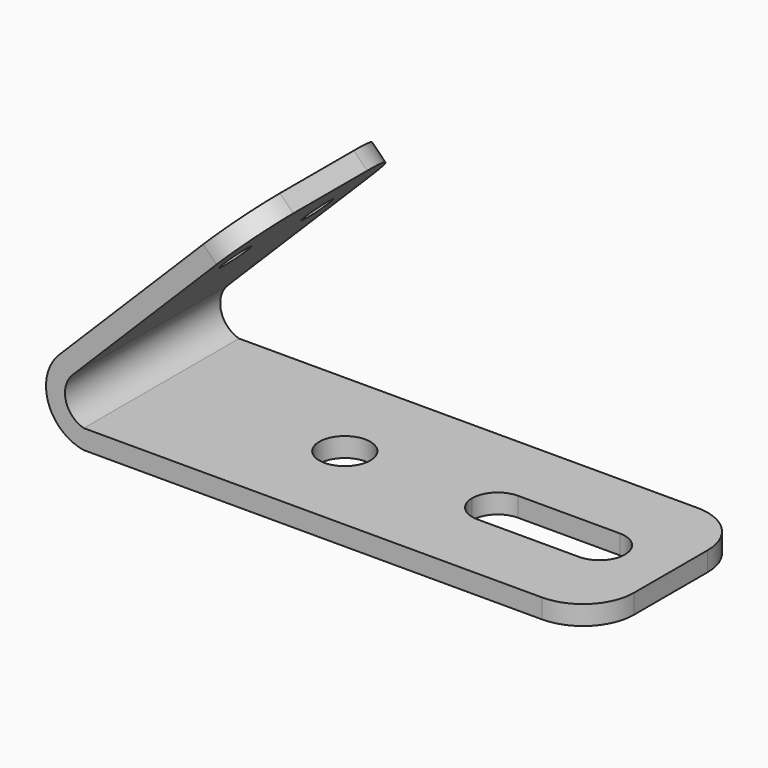
from build123d import *

# Parameters (mm, degrees)
F0_W     = 1270
F0_H     = 48.26
F1_DEPTH = 241.935
F3_DEPTH = 254
F5_DEPTH = 127
F6_R     = 38.1
F7_DEPTH = 101.6
F8_R     = 127


with BuildPart() as f1:
    # F0 (on Front) → F1 (new body, symmetric)
    with BuildSketch(Plane.XZ):
        with Locations((635, 24.13)):
            Rectangle(F0_W, F0_H)
        with BuildLine():
            ThreePointArc((-61.369352, 189.382638), (-88.660331, 75.904336), (0, 0))
            Line((0, 0), (0, 48.26))
            ThreePointArc((0, 48.26), (-44.826748, 94.123068), (-27.992452, 156.005738))
            Line((-27.992452, 156.005738), (421.020354, 605.018544))
            Line((421.020354, 605.018544), (387.643454, 638.395444))
            Line((387.643454, 638.395444), (-61.369352, 189.382638))
        make_face()
    extrude(amount=F1_DEPTH, both=True)

    # F2 (on face) → F3 (cut)
    with BuildSketch(Plane(origin=(0, 0, 0), x_dir=(1, 0, 0), z_dir=(0, 0, -1))):
        with BuildLine():
            ThreePointArc((1092.2, -63.5), (1137.101281, -44.901281), (1155.7, 0))
            ThreePointArc((1155.7, 0), (1137.101281, 44.901281), (1092.2, 63.5))
            Line((1092.2, 63.5), (838.2, 63.5))
            ThreePointArc((838.2, 63.5), (793.298719, 44.901281), (774.7, 0))
            ThreePointArc((774.7, 0), (793.298719, -44.901281), (838.2, -63.5))
            Line((838.2, -63.5), (1092.2, -63.5))
        make_face()
    extrude(amount=-F3_DEPTH, mode=Mode.SUBTRACT)

    # F4 (on face) → F5 (cut)
    with BuildSketch(Plane(origin=(0, 0, 0), x_dir=(1, 0, 0), z_dir=(0, 0, -1))):
        with BuildLine():
            ThreePointArc((520.7, 0), (502.101281, 44.901281), (457.2, 63.5))
            ThreePointArc((457.2, 63.5), (412.298719, -44.901281), (520.7, 0))
        make_face()
    extrude(amount=-F5_DEPTH, mode=Mode.SUBTRACT)

    # F6 (on face) → F7 (cut)
    with BuildSketch(Plane(origin=(-125.375995, 0, 125.375995), x_dir=(0, -1, 0), z_dir=(-0.707107, 0, 0.707107))):
        with BuildLine():
            ThreePointArc((-127.761006, 573.119062), (-154.701775, 508.078294), (-89.661006, 535.019062))
            ThreePointArc((-89.661006, 535.019062), (-100.820238, 561.959831), (-127.761006, 573.119062))
        make_face()
        with Locations((127.761006, 535.019062)):
            Circle(F6_R)
    extrude(amount=-F7_DEPTH, mode=Mode.SUBTRACT)

    # F8
    f8_edges = [f1.edges().sort_by_distance(p)[0] for p in [
        (404.331904, 241.935, 621.706994),
        (404.331904, -241.935, 621.706994),
        (1270, -241.935, 24.13),
        (1270, 241.935, 24.13),
    ]]
    fillet(f8_edges, radius=F8_R)


solid = f1.part
